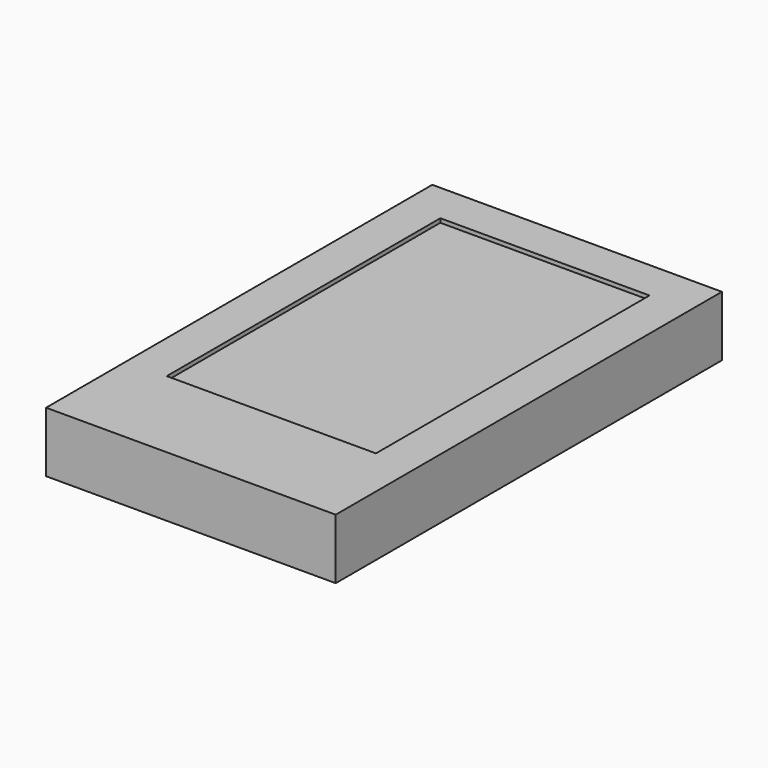
from build123d import *

# Parameters (mm, degrees)
F0_W     = 72
F0_H     = 120
F0_W_2   = 52
F0_H_2   = 85
F1_DEPTH = 15
F2_DEPTH = 14


with BuildPart() as f1:
    # F0 (on Top) → F1 (new body)
    with BuildSketch(Plane.XY):
        Rectangle(F0_W, F0_H)
        with Locations((0, 7.5)):
            Rectangle(F0_W_2, F0_H_2, mode=Mode.SUBTRACT)
        Rectangle(F0_W, F0_H)
        with Locations((0, 7.5)):
            Rectangle(F0_W_2, F0_H_2, mode=Mode.SUBTRACT)
    extrude(amount=F1_DEPTH)

    # F0 (on Top) → F2 (join)
    with BuildSketch(Plane.XY):
        with Locations((0, 7.5)):
            Rectangle(F0_W_2, F0_H_2)
    extrude(amount=F2_DEPTH)


solid = f1.part
